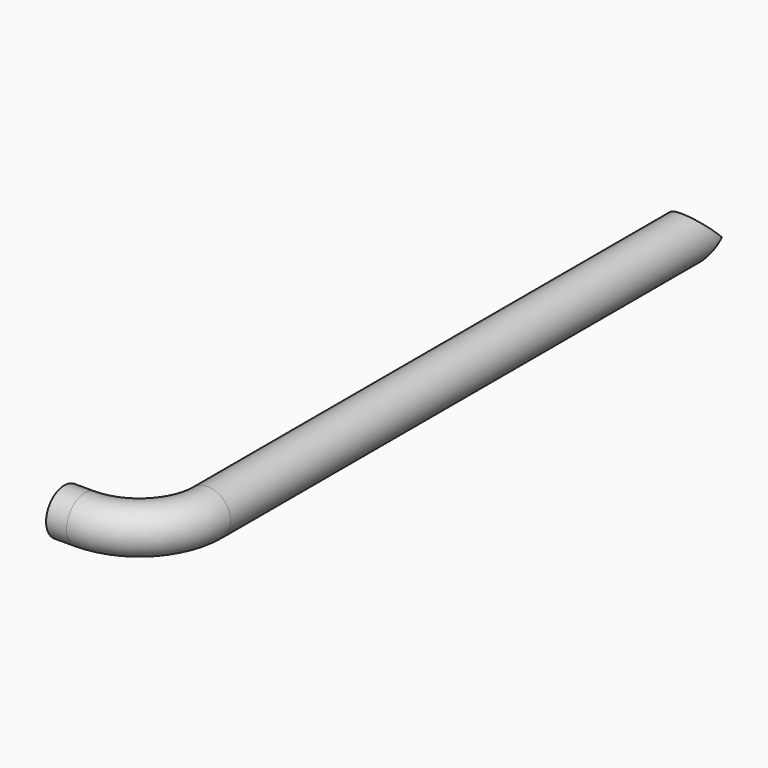
from build123d import *

# Parameters (mm, degrees)
F1_R          = 16.7
F1_R_2        = 13.932
F3_R          = 16.7
F4_DEPTH      = 25
F4_DEPTH_BACK = 25


with BuildPart() as f2:
    # F2: sweep along a path in F0
    with BuildLine(Plane.XY) as f2_path:
        Line((0, 0), (0, -450))
        ThreePointArc((0, -450), (-14.6446609407, -485.3553390593), (-50, -500))
        Line((-50, -500), (-65, -500))
    # F1 (on Front) → F2 (sweep)
    with BuildSketch(Plane.XZ):
        Circle(F1_R)
        Circle(F1_R_2, mode=Mode.SUBTRACT)
    sweep(path=f2_path.line)

    # F3 (on Top) → F4 (cut, two sides)
    with BuildSketch(Plane.XY) as f4_sk:
        Circle(F3_R)
    extrude(amount=-F4_DEPTH, mode=Mode.SUBTRACT)
    extrude(f4_sk.sketch, amount=F4_DEPTH_BACK, mode=Mode.SUBTRACT)


solid = f2.part
